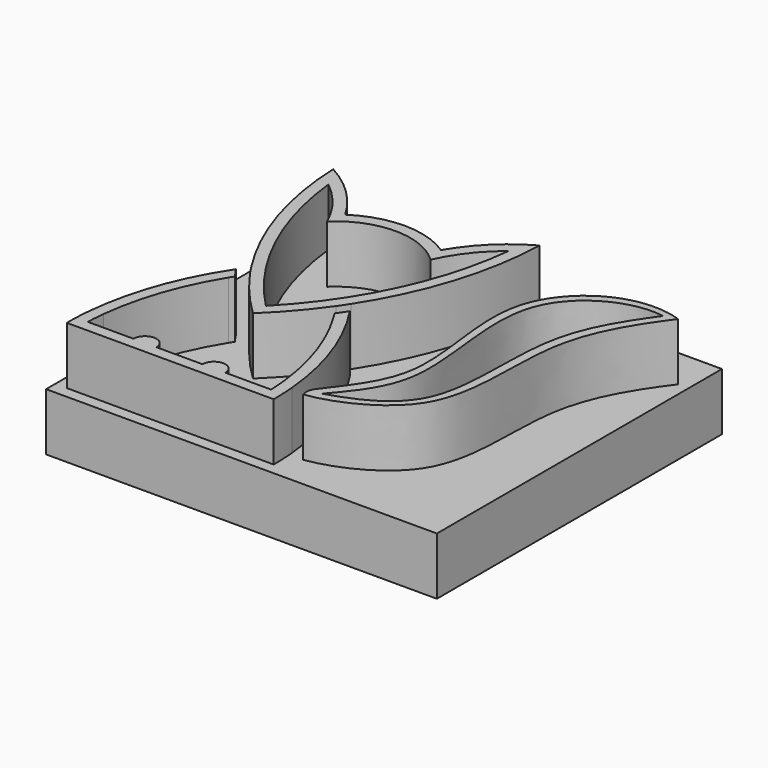
from build123d import *

# Parameters (mm, degrees)
F0_W     = 40
F0_H     = 40
F1_DEPTH = 5
F3_DEPTH = 5
F5_DEPTH = 5
F7_DEPTH = 5


with BuildPart() as f1:
    # F0 (on Top) → F1 (new body)
    with BuildSketch(Plane.XY):
        with Locations((0, -1.4423078379)):
            Rectangle(F0_W, F0_H)
    extrude(amount=F1_DEPTH)

    # F2 (on face) → F3 (join)
    with BuildSketch(Plane.XY.offset(5)):
        with BuildLine():
            ThreePointArc((-14.1666666667, 12.7937878067), (-16.2497421132, 15.4842249108), (-18.9811853554, 17.5132327819))
            ThreePointArc((-18.9811853554, 17.5132327819), (-17.6558893012, 9.8311930383), (-14.3321956463, 2.7797247698))
            ThreePointArc((-14.3321956463, 2.7797247698), (-14.0384410091, 2.335690009), (-13.7365842266, 1.8971228665))
            ThreePointArc((-13.7365842266, 1.8971228665), (-11.9756652837, -0.3650490595), (-10, -2.4423078379))
            ThreePointArc((-10, -2.4423078379), (-8.0243347163, -0.3650490595), (-6.2634157734, 1.8971228665))
            ThreePointArc((-6.2634157734, 1.8971228665), (-5.9615589909, 2.335690009), (-5.6678043537, 2.7797247698))
            ThreePointArc((-5.6678043537, 2.7797247698), (-2.3441106988, 9.8311930383), (-1.0188146446, 17.5132327819))
            ThreePointArc((-1.0188146446, 17.5132327819), (-3.7502578868, 15.4842249108), (-5.8333333333, 12.7937878067))
            ThreePointArc((-5.8333333333, 12.7937878067), (-10, 14.0576921621), (-14.1666666667, 12.7937878067))
        make_face()
        with BuildLine():
            ThreePointArc((-17.8386090668, 15.5557186069), (-15.9104422617, 13.6025441919), (-14.5, 11.2481079219))
            ThreePointArc((-14.5, 11.2481079219), (-10, 13.0576921621), (-5.5, 11.2481079219))
            ThreePointArc((-5.5, 11.2481079219), (-4.0895577383, 13.6025441919), (-2.1613909332, 15.5557186069))
            ThreePointArc((-2.1613909332, 15.5557186069), (-4.6538444684, 6.6592721087), (-9.9058957618, -0.9417174409))
            ThreePointArc((-9.9058957618, -0.9417174409), (-9.952889806, -0.9900282388), (-10, -1.0382257802))
            ThreePointArc((-10, -1.0382257802), (-10.047110194, -0.9900282388), (-10.0941042382, -0.9417174409))
            ThreePointArc((-10.0941042382, -0.9417174409), (-15.3461555316, 6.6592721087), (-17.8386090668, 15.5557186069))
        make_face(mode=Mode.SUBTRACT)
        with BuildLine():
            ThreePointArc((-14.6746917604, 1.49429313), (-14.813143454, 1.6962594848), (-14.9499420607, 1.8993491722))
            ThreePointArc((-14.9499420607, 1.8993491722), (-17.6333766655, -3.4591843441), (-18.9055769047, -9.3154808935))
            ThreePointArc((-18.9055769047, -9.3154808935), (-18.9763826057, -10.3778468743), (-19, -11.4423078379))
            Line((-19, -11.4423078379), (-18, -11.4423078379))
            Line((-18, -11.4423078379), (-2, -11.4423078379))
            Line((-2, -11.4423078379), (-1, -11.4423078379))
            ThreePointArc((-1, -11.4423078379), (-1.0236173943, -10.3778468743), (-1.0944230953, -9.3154808935))
            ThreePointArc((-1.0944230953, -9.3154808935), (-2.3666233345, -3.4591843441), (-5.0500579393, 1.8993491722))
            ThreePointArc((-5.0500579393, 1.8993491722), (-5.186856546, 1.6962594848), (-5.3253082396, 1.49429313))
            ThreePointArc((-5.3253082396, 1.49429313), (-5.4938586481, 1.2530963551), (-5.664766687, 1.0135643809))
            ThreePointArc((-5.664766687, 1.0135643809), (-5.5400096968, 0.8177401798), (-5.4172359122, 0.6206665334))
            ThreePointArc((-5.4172359122, 0.6206665334), (-3.2558828795, -3.9460840787), (-2.1437824802, -8.8745616111))
            ThreePointArc((-2.1437824802, -8.8745616111), (-2.0693638619, -9.6573915088), (-2.0217494138, -10.4423078379))
            Line((-2.0217494138, -10.4423078379), (-6, -10.4423078379))
            ThreePointArc((-6, -10.4423078379), (-7, -9.4423078379), (-8, -10.4423078379))
            Line((-8, -10.4423078379), (-12, -10.4423078379))
            ThreePointArc((-12, -10.4423078379), (-13, -9.4423078379), (-14, -10.4423078379))
            Line((-14, -10.4423078379), (-17.9782505862, -10.4423078379))
            ThreePointArc((-17.9782505862, -10.4423078379), (-17.9306361381, -9.6573915088), (-17.8562175198, -8.8745616111))
            ThreePointArc((-17.8562175198, -8.8745616111), (-16.7441171205, -3.9460840787), (-14.5827640878, 0.6206665334))
            ThreePointArc((-14.5827640878, 0.6206665334), (-14.4599903032, 0.8177401798), (-14.335233313, 1.0135643809))
            ThreePointArc((-14.335233313, 1.0135643809), (-14.5061413519, 1.2530963551), (-14.6746917604, 1.49429313))
        make_face()
    extrude(amount=F3_DEPTH)

    # F4 (on face) → F5 (join)
    with BuildSketch(Plane.XY.offset(5)):
        with BuildLine():
            add(Edge.make_bspline(
                [(0.122830745, -9.643862473), (0.0800776075, -9.2564371629), (-0.2836475293, -8.6528840078), (6.0697106921, -2.7539463587), (0.1924889118, 11.010617472), (8.8871559228, 16.3315651176), (13.0897243609, 14.9395701919)],
                knots=[0, 0, 0, 0, 0.0892731935, 0.3389697324, 0.6872592966, 1, 1, 1, 1], degree=3))
            add(Edge.make_bspline(
                [(0.122830745, -9.643862473), (2.0720909999, -9.4130289317), (10.0156728008, -6.4074475552), (7.6737975893, 6.9160370202), (11.3169839092, 12.5534842645), (13.0897243609, 14.9395701919)],
                knots=[0, 0, 0, 0, 0.3064110943, 0.6750197333, 1, 1, 1, 1], degree=3))
        make_face()
        with BuildLine():
            add(Edge.make_bspline(
                [(1.0569917504, -8.7510244921), (3.4597109512, -8.0260629747), (9.0131155024, -5.6121363011), (7.0344823054, 7.3072493213), (10.3734166024, 12.3634970165), (12.0017683264, 14.648278338)],
                knots=[0, 0, 0, 0, 0.2977508402, 0.6737539057, 1, 1, 1, 1], degree=3))
            add(Edge.make_bspline(
                [(12.0017683264, 14.648278338), (9.1677881113, 15.1552440171), (1.2156290574, 11.3124895915), (6.3737009511, -3.1480270391), (2.0842432148, -7.4958972715), (1.0569917504, -8.7510244921)],
                knots=[0, 0, 0, 0, 0.3213012994, 0.7197281403, 1, 1, 1, 1], degree=3))
        make_face(mode=Mode.SUBTRACT)
    extrude(amount=F5_DEPTH)

    # F6 (on face) → F7 (cut, through all)
    with BuildSketch(Plane.XY.offset(5)):
        Polygon((-20, -21.4423078379), (20, -21.4423078379), (20, 18.5576921621), (14, 18.5576921621), (14, -12.4423078379), (-20, -12.4423078379), align=None)
    extrude(amount=-F7_DEPTH, mode=Mode.SUBTRACT)


solid = f1.part
